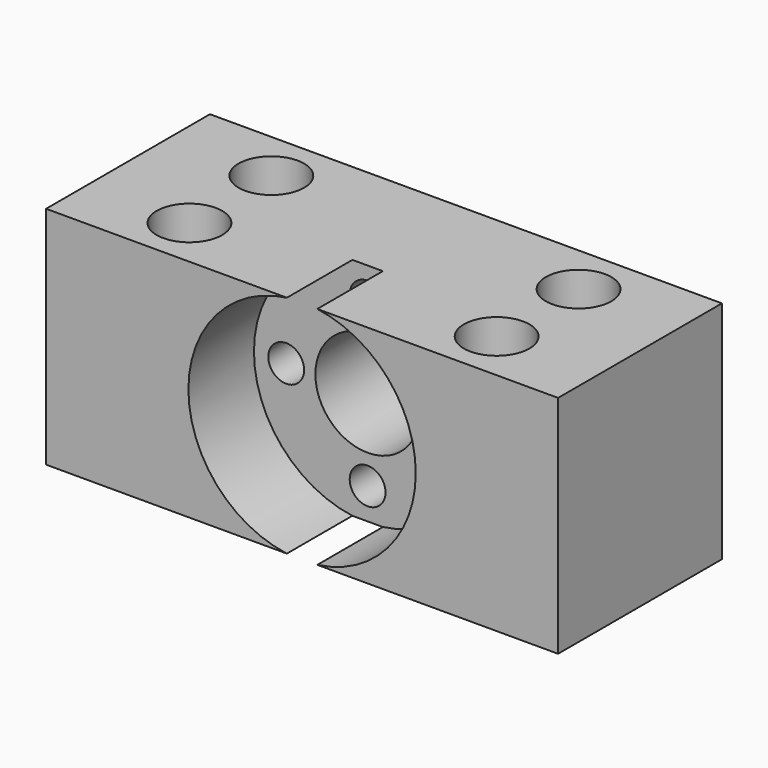
from build123d import *

# Parameters (mm, degrees)
SKETCH_W        = 50
SKETCH_H        = 20
SKETCH_R        = 3.2
PAD_DEPTH       = 22
SKETCH001_R     = 11.1
POCKET_DEPTH    = 8
SKETCH002_R     = 5.1
SKETCH002_R_2   = 1.75
POCKET001_DEPTH = 20


with BuildPart() as part:
    # Sketch → Pad (new body)
    with BuildSketch(Plane.XY):
        with Locations((25, 10)):
            Rectangle(SKETCH_W, SKETCH_H)
        with Locations((10, 15)):
            Circle(SKETCH_R, mode=Mode.SUBTRACT)
        with Locations((10, 5)):
            Circle(SKETCH_R, mode=Mode.SUBTRACT)
        with Locations((40, 15)):
            Circle(SKETCH_R, mode=Mode.SUBTRACT)
        with Locations((40, 5)):
            Circle(SKETCH_R, mode=Mode.SUBTRACT)
    extrude(amount=PAD_DEPTH)

    # Sketch001 (on Face3 of Pad) → Pocket (cut)
    with BuildSketch(Plane.XZ):
        with Locations((25, 11)):
            Circle(SKETCH001_R)
    extrude(amount=-POCKET_DEPTH, mode=Mode.SUBTRACT)

    # Sketch002 (on Face1 of Pocket) → Pocket001 (cut)
    with BuildSketch(Plane(origin=(0, 20, 0), x_dir=(-1, 0, 0), z_dir=(0, 1, 0))):
        with Locations((-25, 11)):
            Circle(SKETCH002_R)
        with Locations((-25, 18.95)):
            Circle(SKETCH002_R_2)
        with Locations((-25, 3.05)):
            Circle(SKETCH002_R_2)
        with Locations((-32.95, 11)):
            Circle(SKETCH002_R_2)
        with Locations((-17.05, 11)):
            Circle(SKETCH002_R_2)
    extrude(amount=-POCKET001_DEPTH, mode=Mode.SUBTRACT)


solid = part.part
